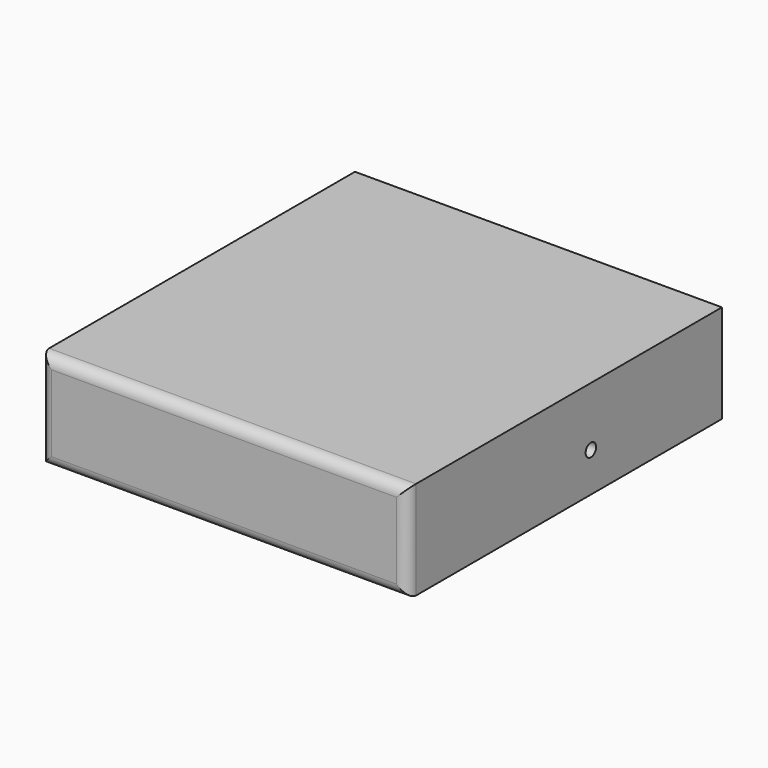
from build123d import *

# Parameters (mm, degrees)
SKETCH004_W     = 168
SKETCH004_H     = 180
PAD002_DEPTH    = 45
SKETCH005_R     = 3
POCKET002_DEPTH = 8
FILLET001_R     = 5


with BuildPart() as part:
    # Sketch004 → Pad002 (new body)
    with BuildSketch(Plane.XY):
        Rectangle(SKETCH004_W, SKETCH004_H)
    extrude(amount=PAD002_DEPTH)

    # Sketch005 (on Face2 of Pad002) → Pocket002 (cut)
    with BuildSketch(Plane.YZ.offset(84)):
        with Locations((15, 18)):
            Circle(SKETCH005_R)
    pocket002 = extrude(amount=-POCKET002_DEPTH, mode=Mode.SUBTRACT)

    # Mirrored: Pocket002 across YZ
    add(pocket002.mirror(Plane.YZ), mode=Mode.SUBTRACT)

    # Fillet001
    fillet001_edges = [part.edges().sort_by_distance(p)[0] for p in [
        (84, -90, 22.5),
        (-84, -90, 22.5),
        (0, -90, 0),
        (0, -90, 45),
    ]]
    fillet(fillet001_edges, radius=FILLET001_R)


solid = part.part
